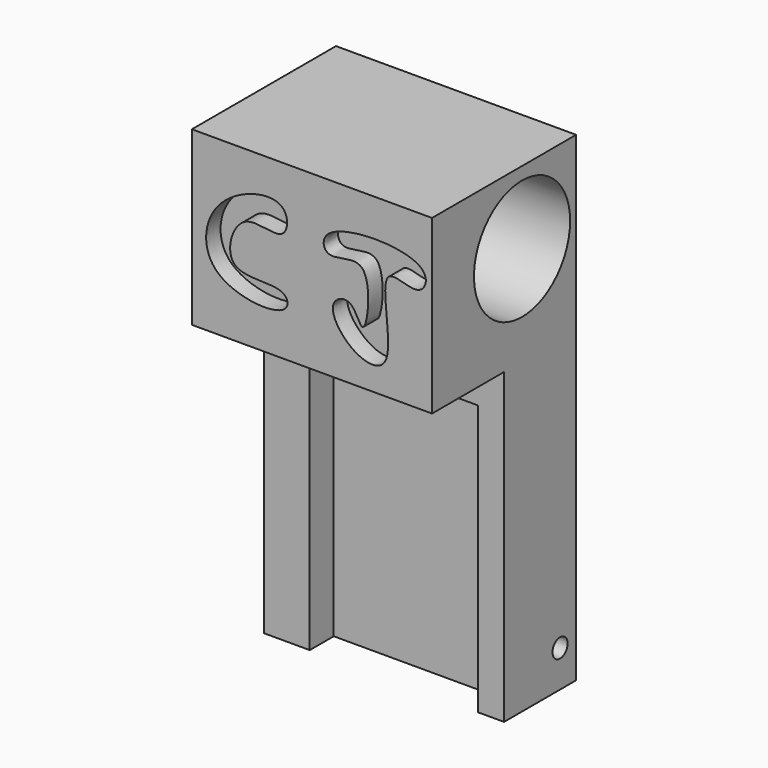
from build123d import *

# Parameters (mm, degrees)
F0_W      = 50.8
F0_H      = 101.6
F1_DEPTH  = 38.1
F2_W      = 35.56
F2_H      = 57.15
F3_DEPTH  = 25.4
F4_R      = 1.9939
F5_DEPTH  = 50.801
F8_DEPTH  = 19.05
F6_R      = 12.7127
F9_DEPTH  = 44.45
F11_DEPTH = 3.81
F13_DEPTH = 3.81
F15_DEPTH = 2.54
F17_DEPTH = 2.54


with BuildPart() as f1:
    # F0 (on Front) → F1 (new body)
    with BuildSketch(Plane.XZ):
        with Locations((-18.1896745238, 9.1040825018)):
            Rectangle(F0_W, F0_H)
    extrude(amount=F1_DEPTH)

    # F2 (on face) → F3 (cut)
    with BuildSketch(Plane.XZ.offset(38.1)):
        with Locations((-16.1208057597, -13.1209174982)):
            Rectangle(F2_W, F2_H)
    extrude(amount=-F3_DEPTH, mode=Mode.SUBTRACT)

    # F4 (on face) → F5 (cut, through all)
    with BuildSketch(Plane.YZ.offset(7.2103254762)):
        with Locations((-4.2401612736, -33.921290189)):
            Circle(F4_R)
    extrude(amount=-F5_DEPTH, mode=Mode.SUBTRACT)

    # F7 (on face) → F8 (cut)
    with BuildSketch(Plane.XZ.offset(38.1)):
        Polygon((7.2103254762, 23.4745144844), (-43.5896745238, 23.4745144844), (-43.5896745238, -41.6959174982), (-33.9008057597, -41.6959174982), (-33.9008057597, 15.4540825018), (1.6591942403, 15.4540825018), (1.6591942403, -41.6959174982), (7.2103254762, -41.6959174982), align=None)
    extrude(amount=-F8_DEPTH, mode=Mode.SUBTRACT)

    # F6 (on face) → F9 (cut)
    with BuildSketch(Plane.YZ.offset(7.2103254762)):
        with Locations((-14.296356844, 44.4983665516)):
            Circle(F6_R)
    extrude(amount=-F9_DEPTH, mode=Mode.SUBTRACT)

    # F10 (on face) → F11 (cut)
    with BuildSketch(Plane.XZ.offset(38.1)):
        with BuildLine():
            add(Edge.make_bspline(
                [(-24.5191939175, 51.6193546355), (-26.9928777594, 53.7901302829), (-40.6748023663, 50.0168923059), (-42.2556991084, 32.2081516515), (-22.3647414294, 30.5919949718), (-23.7613598817, 37.7362670918), (-37.9977837896, 34.3089193372), (-33.7835832276, 49.7186230364), (-23.3262079535, 43.9538713581), (-23.0225912269, 50.3060143373), (-24.5191939175, 51.6193546355)],
                knots=[0, 0, 0, 0, 0.1534689905, 0.3030406273, 0.4607842333, 0.5328804381, 0.6667064845, 0.7899114016, 0.9071497739, 1, 1, 1, 1], degree=3))
        make_face()
    extrude(amount=-F11_DEPTH, mode=Mode.SUBTRACT)

    # F12 (on face) → F13 (cut)
    with BuildSketch(Plane.XZ.offset(38.1)):
        with BuildLine():
            add(Edge.make_bspline(
                [(-14.7483870387, 49.7758090496), (-16.2287047897, 48.4533381333), (-15.3539362142, 43.9453043938), (-4.7981346282, 50.0735399317), (-6.8908694772, 30.0638116538), (-9.4382575341, 40.0397510285), (-15.9123775105, 37.2506119588), (-9.8844705864, 28.455331325), (0.9133382538, 27.4375315801), (-5.7920934364, 50.3987026273), (4.8743953987, 43.3159232301), (8.2220187581, 52.8202769942), (-11.3105131061, 52.8471012006), (-14.7483870387, 49.7758090496)],
                knots=[0, 0, 0, 0, 0.0632579613, 0.1504588961, 0.2590479995, 0.3285990014, 0.3922089372, 0.489296022, 0.5730793756, 0.7034481699, 0.78594618, 0.8530903948, 1, 1, 1, 1], degree=3))
        make_face()
    extrude(amount=-F13_DEPTH, mode=Mode.SUBTRACT)

    # F14 (on face) → F15 (join)
    with BuildSketch(Plane(origin=(0, 0, 0), x_dir=(-1, 0, 0), z_dir=(0, 1, 0))):
        with BuildLine():
            add(Edge.make_bspline(
                [(29.1280653328, 46.6417744756), (26.8089819672, 50.9659935548), (4.3141331023, 48.3578191481), (4.5381963465, 38.6929270534), (15.8867748668, 25.4269360704), (31.3220368109, 42.5508420555), (29.1280653328, 46.6417744756)],
                knots=[0, 0, 0, 0, 0.3038841242, 0.4786731982, 0.7125100757, 1, 1, 1, 1], degree=3))
        make_face()
        with BuildLine():
            add(Edge.make_bspline(
                [(21.0164524615, 45.535646379), (20.105329431, 47.7178767613), (7.1858916056, 45.8905780507), (11.6189038559, 33.3227947101), (21.9617231282, 43.2716290077), (21.0164524615, 45.535646379)],
                knots=[0, 0, 0, 0, 0.3568693413, 0.6297556873, 1, 1, 1, 1], degree=3))
        make_face(mode=Mode.SUBTRACT)
        with BuildLine():
            add(Edge.make_bspline(
                [(15.3014520183, 27.1001625806), (15.0355158357, 28.0198980993), (4.5451181707, 31.4162476177), (11.9645618504, 16.7936418753), (-1.4420113325, 34.1899120181), (-0.2285866017, 25.5359943598), (5.5562612579, 20.6724906824), (16.1341564293, 16.150489478), (14.4163543912, 22.202007023), (10.5580760831, 21.1921854772), (9.7697109403, 26.0547604472), (15.5152155688, 26.3608651747), (15.3014520183, 27.1001625806)],
                knots=[0, 0, 0, 0, 0.1140101984, 0.215168924, 0.3591920824, 0.4361950975, 0.5648021488, 0.6877397058, 0.7614475595, 0.8357577186, 0.9083568676, 1, 1, 1, 1], degree=3))
        make_face()
        with BuildLine():
            add(Edge.make_bspline(
                [(27.2845160216, 16.2232257426), (24.6398420748, 17.7912487204), (11.446877637, 14.4765951566), (4.336302359, 18.2041401744), (3.6329756881, 9.0694239092), (28.768957073, 10.3036621841), (28.4953346115, 15.5053333259), (27.2845160216, 16.2232257426)],
                knots=[0, 0, 0, 0, 0.2654124546, 0.4348639518, 0.5701957685, 0.8784854615, 1, 1, 1, 1], degree=3))
        make_face()
        with BuildLine():
            add(Edge.make_bspline(
                [(26.362741366, 7.5585483573), (23.3386927083, 9.9850117828), (2.1045661663, 10.992655336), (2.6830398649, 0.7015240447), (25.4042386583, 2.3840704327), (27.5463200561, 6.6088578174), (26.362741366, 7.5585483573)],
                knots=[0, 0, 0, 0, 0.3571699627, 0.5135272477, 0.860207687, 1, 1, 1, 1], degree=3))
        make_face()
        with BuildLine():
            add(Edge.make_bspline(
                [(11.4300008863, -8.4803234786), (12.4956519447, -8.5159048038), (14.6974456937, -7.3532603002), (15.733950948, -14.4529202457), (-2.0766297174, -11.8231312464), (4.40298088, -7.7995792153), (6.4524193294, -7.558547426)],
                knots=[0, 0, 0, 0, 0.1452956567, 0.3092716589, 0.6056034316, 0.8034151694, 0.8034151694, 0.8034151694, 0.8034151694], degree=3))
            add(Edge.make_bspline(
                [(6.4524193294, -7.558547426), (7.8220830801, -9.0018886836), (10.0420617108, -9.3999662422), (11.4300008863, -8.4803234786)],
                knots=[0.5975611693, 0.5975611693, 0.5975611693, 0.5975611693, 0.7953265713, 0.7953265713, 0.7953265713, 0.7953265713], degree=3))
        make_face()
        with BuildLine():
            add(Edge.make_bspline(
                [(15.1170967147, -15.8545151353), (16.9799818385, -17.0354987811), (18.3564967227, -21.5814451978), (4.2912393544, -18.8768979255), (14.9613897604, -21.1472202061), (16.2723234013, -28.8927738547), (11.8209060811, -31.2485284015), (0.1847874312, -33.4750148093), (1.2077520222, -24.9595558128), (10.5237435841, -29.6753975871), (10.6560599884, -22.6908440851), (-1.5984183961, -24.2907384177), (-1.9677034932, -14.2521853546), (11.5041112181, -13.564048198), (15.1170967147, -15.8545151353)],
                knots=[0, 0, 0, 0, 0.0653017986, 0.1558583913, 0.2306321007, 0.3141622232, 0.3851467931, 0.4868821764, 0.5512395898, 0.6396689576, 0.6955616824, 0.7981020623, 0.8733499729, 1, 1, 1, 1], degree=3))
        make_face()
    extrude(amount=F15_DEPTH)

    # F16 (on face) → F17 (join)
    with BuildSketch(Plane(origin=(0, 0, 0), x_dir=(-1, 0, 0), z_dir=(0, 1, 0))):
        with BuildLine():
            ThreePointArc((12.5171647467, -8.3751203785), (14.1453375446, -6.5861901435), (14.7347138268, -4.240160808))
            ThreePointArc((14.7347138268, -4.240160808), (7.9627385729, 0.3827453332), (6.1240523403, -7.6078831132))
            add(Edge.make_bspline(
                [(6.1240523403, -7.6078831132), (6.234658596, -7.5877919373), (6.3442966251, -7.5712635966), (6.4524193294, -7.558547426)],
                knots=[0.7929791692, 0.7929791692, 0.7929791692, 0.7929791692, 0.8034151694, 0.8034151694, 0.8034151694, 0.8034151694], degree=3))
            add(Edge.make_bspline(
                [(6.4524193294, -7.558547426), (7.8220830801, -9.0018886836), (10.0420617108, -9.3999662422), (11.4300008863, -8.4803234786)],
                knots=[0.5975611693, 0.5975611693, 0.5975611693, 0.5975611693, 0.7953265713, 0.7953265713, 0.7953265713, 0.7953265713], degree=3))
            add(Edge.make_bspline(
                [(11.4300008863, -8.4803234786), (11.8009244196, -8.4927083496), (12.1680619358, -8.4346067455), (12.5171647467, -8.3751203785)],
                knots=[0, 0, 0, 0, 0.0505733823, 0.0505733823, 0.0505733823, 0.0505733823], degree=3))
        make_face()
    extrude(amount=F17_DEPTH)


solid = f1.part
